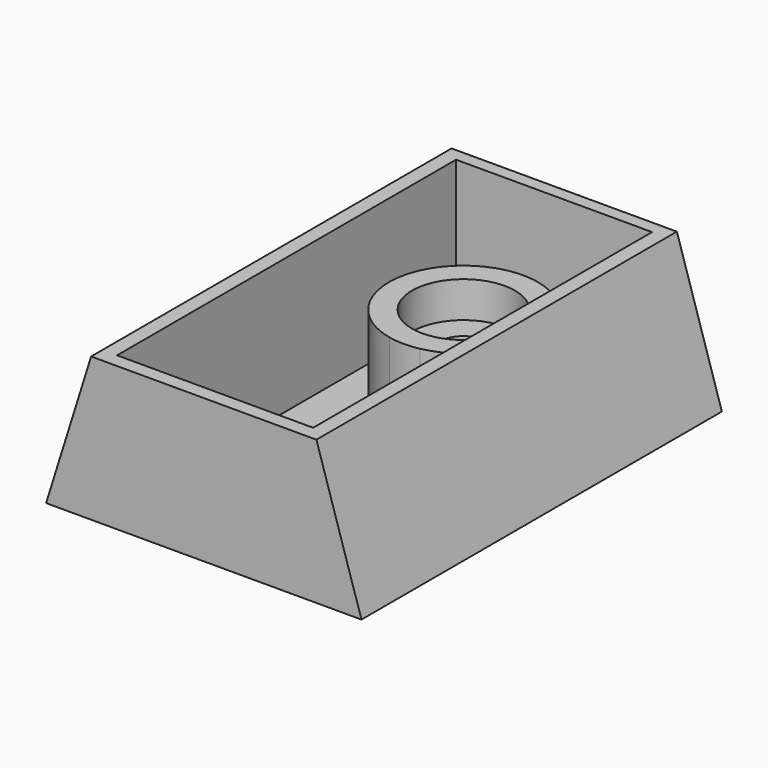
from build123d import *

# Parameters (mm, degrees)
F1_DEPTH = 254
F2_W     = 110.513743
F2_H     = 238.865314
F3_DEPTH = 76.2
F4_R     = 13.777056
F5_DEPTH = 12.7
F4_R_2   = 29.024118
F6_DEPTH = 25.4
F7_DEPTH = 45.72


with BuildPart() as f1:
    # F0 (on Front) → F1 (new body)
    with BuildSketch(Plane.XZ):
        Polygon((55.033337, 0), (-71.966663, 0), (-97.366663, -81.034942), (80.433337, -81.034942), align=None)
    extrude(amount=F1_DEPTH)

    # F2 (on face) → F3 (cut)
    with BuildSketch(Plane.XY):
        with Locations((-8.464859, -126.595483)):
            Rectangle(F2_W, F2_H)
    extrude(amount=-F3_DEPTH, mode=Mode.SUBTRACT)

    # F4 (on face) → F5 (join)
    with BuildSketch(Plane.XY.offset(-76.2)):
        with Locations((-8.46486, -71.00261)):
            Circle(F4_R)
    extrude(amount=F5_DEPTH)

    # F4 (on face) → F6 (join)
    with BuildSketch(Plane.XY.offset(-76.2)):
        with Locations((-8.46486, -71.00261)):
            Circle(F4_R_2)
        with Locations((-8.46486, -71.00261)):
            Circle(F4_R, mode=Mode.SUBTRACT)
    extrude(amount=F6_DEPTH)

    # F4 (on face) → F7 (join)
    with BuildSketch(Plane.XY.offset(-76.2)):
        with BuildLine():
            ThreePointArc((0, -112.110629), (24.068181, -97.519102), (33.505643, -71.00261))
            ThreePointArc((33.505643, -71.00261), (-34.801071, -38.323456), (-17.383769, -112.014513))
            ThreePointArc((-17.383769, -112.014513), (-8.696916, -112.972471), (0, -112.110629))
        make_face()
        with Locations((-8.46486, -71.00261)):
            Circle(F4_R_2, mode=Mode.SUBTRACT)
    extrude(amount=F7_DEPTH)


solid = f1.part
